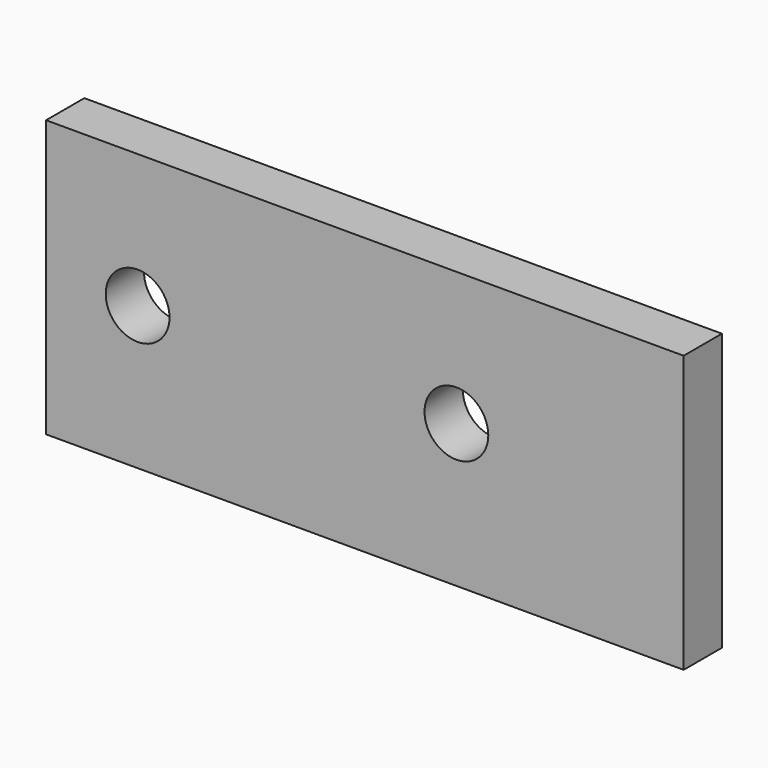
from build123d import *

# Parameters (mm, degrees)
F0_W     = 200
F0_H     = 86.747314
F0_R     = 10
F1_DEPTH = 15


with BuildPart() as f1:
    # F0 (on Front) → F1 (new body)
    with BuildSketch(Plane.XZ):
        with Locations((71.285965, -1.479412)):
            Rectangle(F0_W, F0_H)
        Circle(F0_R, mode=Mode.SUBTRACT)
        with Locations((100, 0)):
            Circle(F0_R, mode=Mode.SUBTRACT)
    extrude(amount=F1_DEPTH)


solid = f1.part
